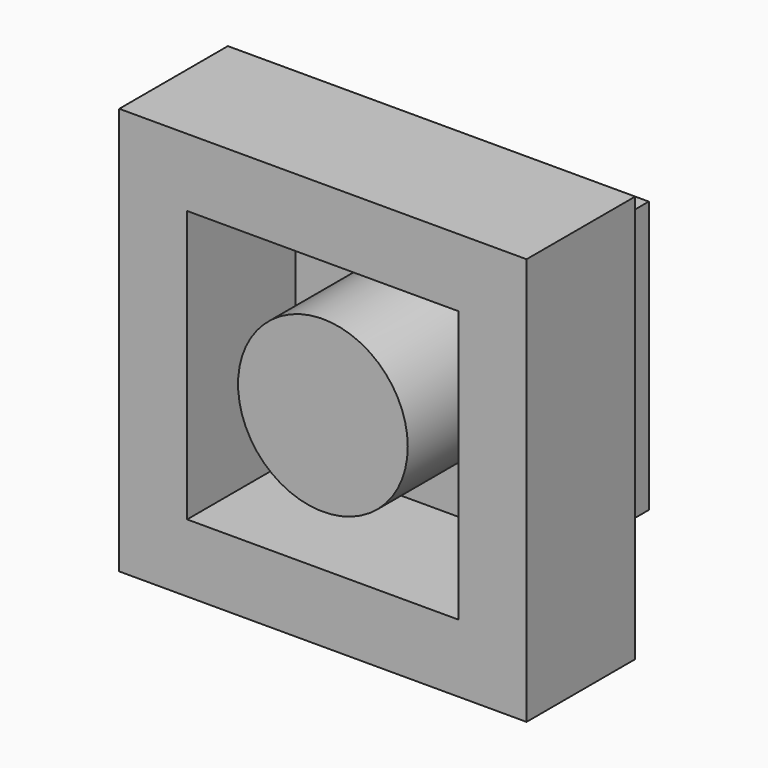
from build123d import *

# Parameters (mm, degrees)
F0_W     = 101.6
F0_H     = 101.6
F0_R     = 31.75
F1_DEPTH = 38.1
F0_W_2   = 152.4
F0_H_2   = 152.4
F2_DEPTH = 50.8


with BuildPart() as f1:
    # F0 (on Front) → F1 (new body)
    with BuildSketch(Plane.XZ):
        Rectangle(F0_W, F0_H)
        Circle(F0_R, mode=Mode.SUBTRACT)
    extrude(amount=-F1_DEPTH)


with BuildPart() as f2:
    # F0 (on Front) → F2 (new body)
    with BuildSketch(Plane.XZ):
        Rectangle(F0_W_2, F0_H_2)
        Rectangle(F0_W, F0_H, mode=Mode.SUBTRACT)
        Circle(F0_R)
    extrude(amount=F2_DEPTH)


solid = Compound([f1.part, f2.part])
